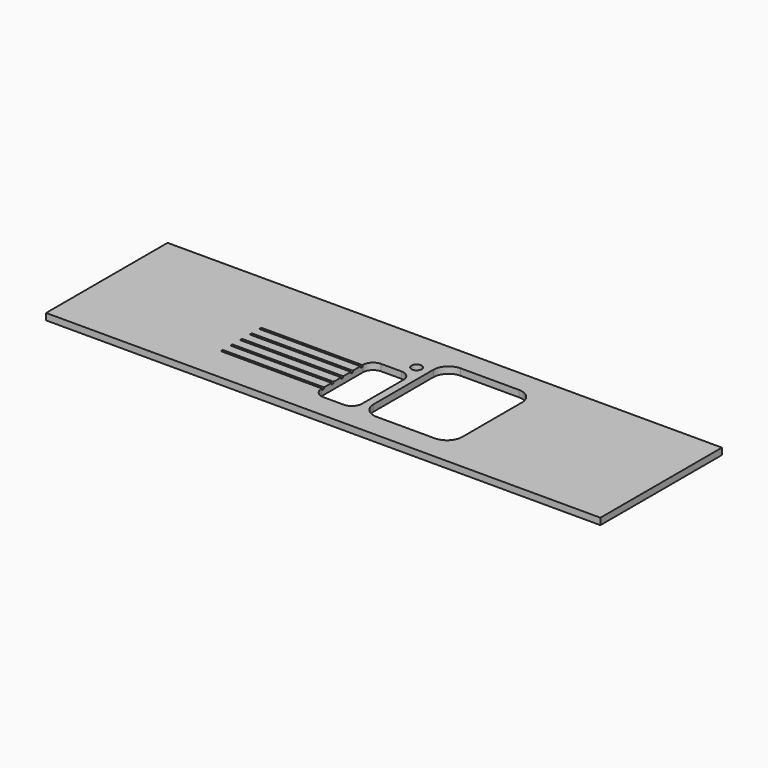
from build123d import *

# Parameters (mm, degrees)
F0_W     = 2190
F0_H     = 600
F1_DEPTH = 26
F3_DEPTH = 26.001
F5_DEPTH = 6
F6_R     = 3
F7_R     = 20
F8_DEPTH = 26.001


with BuildPart() as f1:
    # F0 (on Top) → F1 (new body)
    with BuildSketch(Plane.XY):
        Rectangle(F0_W, F0_H)
    extrude(amount=F1_DEPTH)

    # F2 (on face) → F3 (cut, through all)
    with BuildSketch(Plane.XY.offset(26)):
        with BuildLine():
            Line((135, -205), (365, -205))
            ThreePointArc((365, -205), (407.426407, -187.426407), (425, -145))
            Line((425, -145), (425, 150))
            ThreePointArc((425, 150), (407.426407, 192.426407), (365, 210))
            Line((365, 210), (135, 210))
            ThreePointArc((135, 210), (92.573593, 192.426407), (75, 150))
            Line((75, 150), (75, -145))
            ThreePointArc((75, -145), (92.573593, -187.426407), (135, -205))
        make_face()
        with BuildLine():
            Line((-75, -205), (5, -205))
            ThreePointArc((5, -205), (33.284271, -193.284271), (45, -165))
            Line((45, -165), (45, 40))
            ThreePointArc((45, 40), (33.284271, 68.284271), (5, 80))
            Line((5, 80), (-75, 80))
            ThreePointArc((-75, 80), (-103.284271, 68.284271), (-115, 40))
            Line((-115, 40), (-115, -165))
            ThreePointArc((-115, -165), (-103.284271, -193.284271), (-75, -205))
        make_face()
    extrude(amount=-F3_DEPTH, mode=Mode.SUBTRACT)

    # F4 (on face) → F5 (cut)
    with BuildSketch(Plane.XY.offset(26)):
        with BuildLine():
            Line((-115, -162.5), (-115, -152.5))
            Line((-115, -152.5), (-512, -152.5))
            ThreePointArc((-512, -152.5), (-514.12132, -153.37868), (-515, -155.5))
            Line((-515, -155.5), (-515, -159.5))
            ThreePointArc((-515, -159.5), (-514.12132, -161.62132), (-512, -162.5))
            Line((-512, -162.5), (-115, -162.5))
        make_face()
        with BuildLine():
            Line((-115, -115), (-115, -105))
            Line((-115, -105), (-512, -105))
            ThreePointArc((-512, -105), (-514.12132, -105.87868), (-515, -108))
            Line((-515, -108), (-515, -112))
            ThreePointArc((-515, -112), (-514.12132, -114.12132), (-512, -115))
            Line((-512, -115), (-115, -115))
        make_face()
        with BuildLine():
            Line((-115, -67.5), (-115, -57.5))
            Line((-115, -57.5), (-512, -57.5))
            ThreePointArc((-512, -57.5), (-514.12132, -58.37868), (-515, -60.5))
            Line((-515, -60.5), (-515, -64.5))
            ThreePointArc((-515, -64.5), (-514.12132, -66.62132), (-512, -67.5))
            Line((-512, -67.5), (-115, -67.5))
        make_face()
        with BuildLine():
            Line((-115, -20), (-115, -10))
            Line((-115, -10), (-512, -10))
            ThreePointArc((-512, -10), (-514.12132, -10.87868), (-515, -13))
            Line((-515, -13), (-515, -17))
            ThreePointArc((-515, -17), (-514.12132, -19.12132), (-512, -20))
            Line((-512, -20), (-115, -20))
        make_face()
        with BuildLine():
            Line((-115, 27.5), (-115, 37.5))
            Line((-115, 37.5), (-512, 37.5))
            ThreePointArc((-512, 37.5), (-514.12132, 36.62132), (-515, 34.5))
            Line((-515, 34.5), (-515, 30.5))
            ThreePointArc((-515, 30.5), (-514.12132, 28.37868), (-512, 27.5))
            Line((-512, 27.5), (-115, 27.5))
        make_face()
    extrude(amount=-F5_DEPTH, mode=Mode.SUBTRACT)

    # F6
    f6_edges = [f1.edges().sort_by_distance(p)[0] for p in [
        (-313.5, 37.5, 20),
        (-313.5, -10, 20),
        (-313.5, -57.5, 20),
        (-313.5, -105, 20),
        (-313.5, -152.5, 20),
        (-313.5, -162.5, 20),
        (-313.5, -115, 20),
        (-313.5, -20, 20),
        (-313.5, -67.5, 20),
        (-313.5, 27.5, 20),
    ]]
    fillet(f6_edges, radius=F6_R)

    # F7 (on face) → F8 (cut, through all)
    with BuildSketch(Plane.XY.offset(26)):
        with Locations((25, 130)):
            Circle(F7_R)
    extrude(amount=-F8_DEPTH, mode=Mode.SUBTRACT)


solid = f1.part
